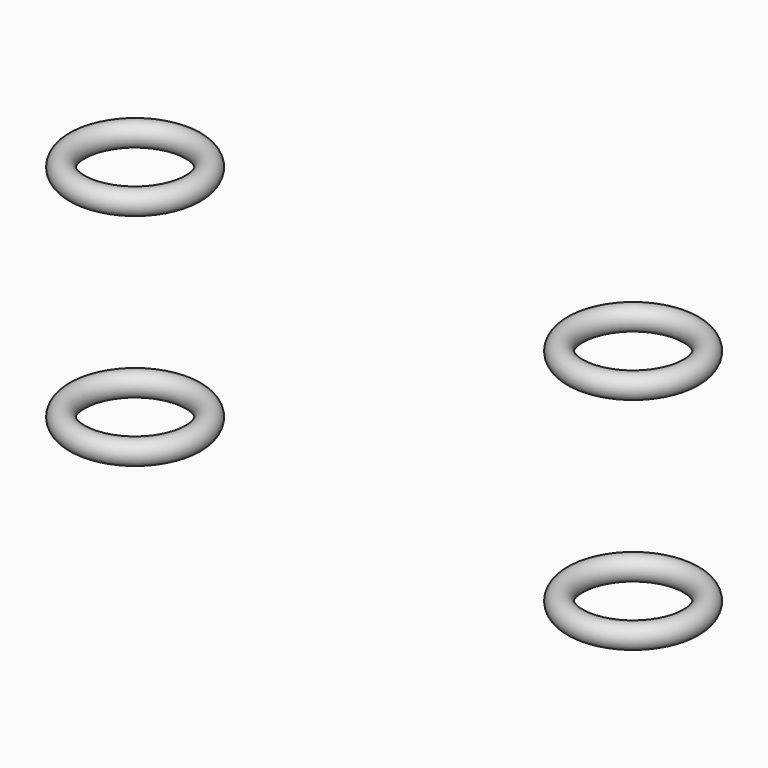
from build123d import *

# Parameters (mm, degrees)
TORUS001_R = 2
TORUS_R    = 2


with BuildPart() as torus001:
    # Torus001 → Torus001 (revolve)
    with BuildSketch(Plane(origin=(-43, 0, 44), x_dir=(1, 0, 0), z_dir=(0, -1, 0))):
        with Locations((10, 0)):
            Circle(TORUS001_R)
    revolve(axis=Axis((-43, 0, 44), (0, 0, 1)))


with BuildPart() as fusion001:
    # Torus → Torus (revolve)
    with BuildSketch(Plane(origin=(-43, 0, 6), x_dir=(1, 0, 0), z_dir=(0, -1, 0))):
        with Locations((10, 0)):
            Circle(TORUS_R)
    revolve(axis=Axis((-43, 0, 6), (0, 0, 1)))

    # Fusion001: union Torus001
    add(torus001.part)


with BuildPart() as fusion002:
    # Clone base: copy of Fusion001
    add(fusion001.part)


with BuildPart() as fusion002_1:
    # Clone placement: moved
    add(fusion002.part.moved(Location((86, 0, 0))))

    # Fusion002: union Fusion001
    add(fusion001.part)


solid = fusion002_1.part
